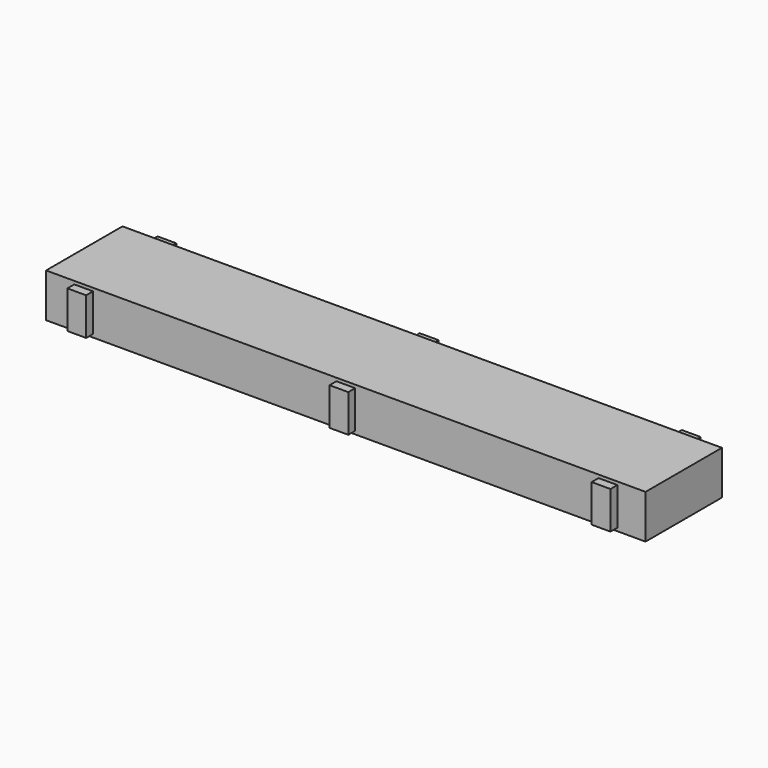
from build123d import *

# Parameters (mm, degrees)
F0_W      = 2432.05
F0_H      = 387.35
F1_DEPTH  = 177.8
F6_W      = 76.2
F6_H      = 152.4
F7_DEPTH  = 34.925
F2_W      = 76.2
F2_H      = 152.4
F3_DEPTH  = 34.925
F8_DEPTH  = 422.275
F9_DEPTH  = 422.275
F4_W      = 76.2
F4_H      = 152.4
F10_DEPTH = 34.925
F5_DEPTH  = 422.275


with BuildPart() as f1:
    # F0 (on Top) → F1 (new body)
    with BuildSketch(Plane.XY):
        with Locations((770.752065, -1.466483)):
            Rectangle(F0_W, F0_H)
    extrude(amount=F1_DEPTH)

    # F6 (on face) → F7 (join)
    with BuildSketch(Plane.XZ.offset(195.141483)):
        with Locations((-292.872935, 88.9)):
            Rectangle(F6_W, F6_H)
    extrude(amount=F7_DEPTH)

    # F2 (on face) → F3 (join)
    with BuildSketch(Plane.XZ.offset(195.141483)):
        with Locations((1834.377065, 88.9)):
            Rectangle(F2_W, F2_H)
    extrude(amount=F3_DEPTH)

    # F2 (on face) → F8 (join)
    with BuildSketch(Plane.XZ.offset(195.141483)):
        with Locations((1834.377065, 88.9)):
            Rectangle(F2_W, F2_H)
    extrude(amount=-F8_DEPTH)

    # F6 (on face) → F9 (join)
    with BuildSketch(Plane.XZ.offset(195.141483)):
        with Locations((-292.872935, 88.9)):
            Rectangle(F6_W, F6_H)
    extrude(amount=-F9_DEPTH)

    # F4 (on face) → F10 (join)
    with BuildSketch(Plane.XZ.offset(195.141483)):
        with Locations((770.752065, 88.9)):
            Rectangle(F4_W, F4_H)
    extrude(amount=F10_DEPTH)

    # F4 (on face) → F5 (join)
    with BuildSketch(Plane.XZ.offset(195.141483)):
        with Locations((770.752065, 88.9)):
            Rectangle(F4_W, F4_H)
    extrude(amount=-F5_DEPTH)


solid = f1.part
